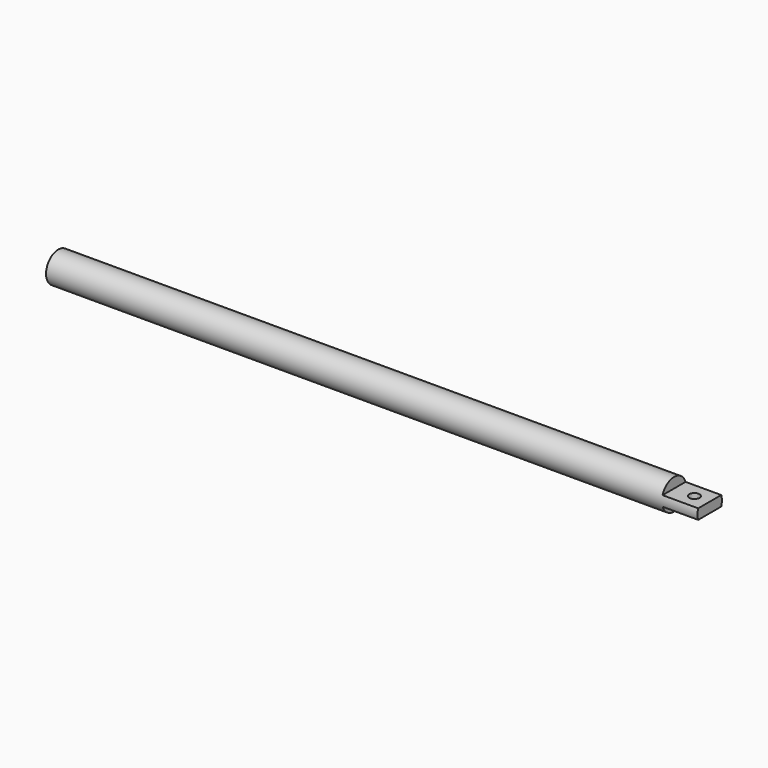
from build123d import *

# Parameters (mm, degrees)
F0_R     = 3
F1_DEPTH = 128
F2_W     = 10
F2_H     = 3.727433
F3_DEPTH = 7
F4_W     = 10
F4_H     = 10
F5_DEPTH = 7
F6_R     = 1
F7_DEPTH = 10
F8_R     = 2.5
F9_DEPTH = 110


with BuildPart() as f1:
    # F0 (on Right) → F1 (new body)
    with BuildSketch(Plane.YZ):
        Circle(F0_R)
    extrude(amount=F1_DEPTH)

    # F2 (on face) → F3 (cut)
    with BuildSketch(Plane.YZ.offset(128)):
        with Locations((0, 2.863716)):
            Rectangle(F2_W, F2_H)
    extrude(amount=-F3_DEPTH, mode=Mode.SUBTRACT)

    # F4 (on face) → F5 (cut)
    with BuildSketch(Plane.YZ.offset(128)):
        with Locations((0, -6)):
            Rectangle(F4_W, F4_H)
    extrude(amount=-F5_DEPTH, mode=Mode.SUBTRACT)

    # F6 (on face) → F7 (cut)
    with BuildSketch(Plane.XY.offset(1)):
        with Locations((125, 0)):
            Circle(F6_R)
    extrude(amount=-F7_DEPTH, mode=Mode.SUBTRACT)

    # F8 (on face) → F9 (cut)
    with BuildSketch(Plane(origin=(0, 0, 0), x_dir=(0, -1, 0), z_dir=(-1, 0, 0))):
        Circle(F8_R)
    extrude(amount=-F9_DEPTH, mode=Mode.SUBTRACT)


solid = f1.part
